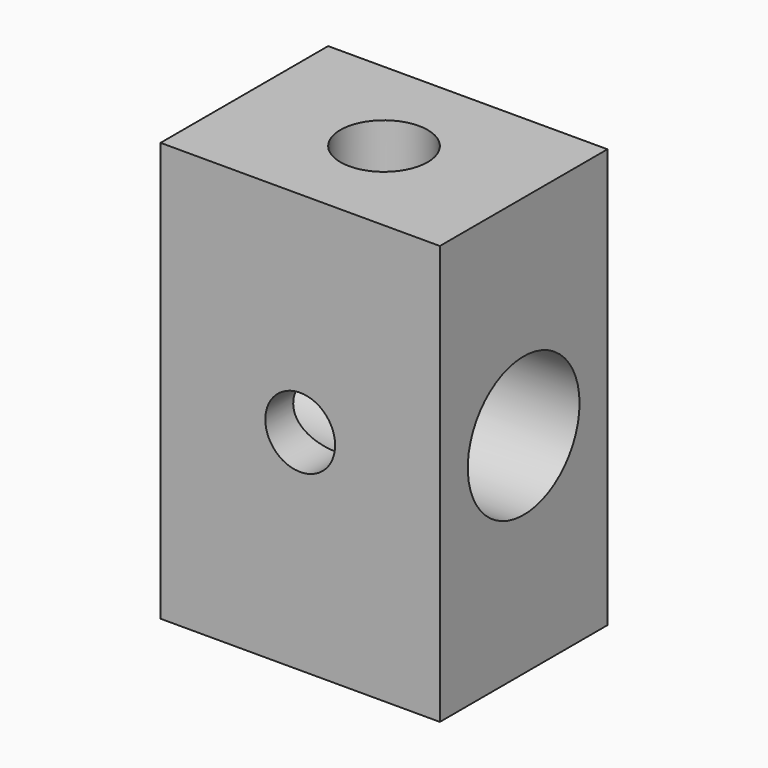
from build123d import *

# Parameters (mm, degrees)
F0_W     = 101.6
F0_H     = 152.4
F1_DEPTH = 38.1
F2_R     = 12.7
F3_DEPTH = 76.201
F4_R     = 25.4
F5_DEPTH = 101.601
F6_R     = 15.875
F7_DEPTH = 152.401


with BuildPart() as f1:
    # F0 (on Front) → F1 (new body, symmetric)
    with BuildSketch(Plane.XZ):
        Rectangle(F0_W, F0_H)
    extrude(amount=F1_DEPTH, both=True)

    # F2 (on face) → F3 (cut, through all)
    with BuildSketch(Plane.XZ.offset(38.1)):
        Circle(F2_R)
    extrude(amount=-F3_DEPTH, mode=Mode.SUBTRACT)

    # F4 (on face) → F5 (cut, through all)
    with BuildSketch(Plane.YZ.offset(50.8)):
        Circle(F4_R)
    extrude(amount=-F5_DEPTH, mode=Mode.SUBTRACT)

    # F6 (on face) → F7 (cut, through all)
    with BuildSketch(Plane.XY.offset(76.2)):
        Circle(F6_R)
    extrude(amount=-F7_DEPTH, mode=Mode.SUBTRACT)


solid = f1.part
